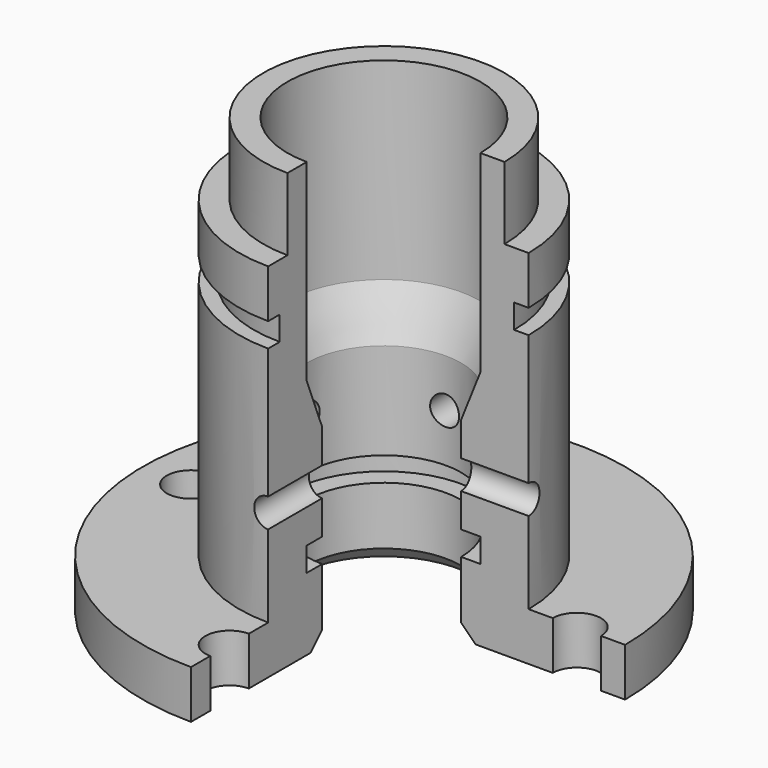
from build123d import *

# Parameters (mm, degrees)
SKETCH011_W        = 75.951607
SKETCH011_H        = 66.059464
PAD004_DEPTH       = 100
SKETCH010_W        = 3
SKETCH010_H        = 5
SKETCH007_R        = 3
PAD003_DEPTH       = 35
SKETCH006_R        = 3
PAD002_DEPTH       = 35
SKETCH005_W        = 4
SKETCH005_H        = 5
SKETCH_R           = 50
PAD_DEPTH          = 10
SKETCH001_R        = 30
PAD001_DEPTH       = 80
SKETCH002_R        = 5
POCKET_DEPTH       = 345.262092
POLARPATTERN_COUNT = 4
SKETCH003_R        = 16
POCKET001_DEPTH    = 90.001
SKETCH009_R        = 30
SKETCH009_R_2      = 25
POCKET002_DEPTH    = 15


with BuildPart() as pad004:
    # Sketch011 → Pad004 (new body)
    with BuildSketch(Plane.XY):
        with Locations((37.975803, -33.029732)):
            Rectangle(SKETCH011_W, SKETCH011_H)
    extrude(amount=PAD004_DEPTH)


with BuildPart() as revolution003:
    # Sketch010 → Revolution003 (revolve)
    with BuildSketch(Plane.XZ):
        with Locations((28.5, 62.5)):
            Rectangle(SKETCH010_W, SKETCH010_H)
    revolve(axis=Axis((0, 0, 0), (0, 0, 1)))


with BuildPart() as revolution002:
    # Sketch008 → Revolution002 (revolve)
    with BuildSketch(Plane.XZ):
        Polygon((0, 100.7905), (0, 40), (16, 40), (20, 50), (20, 100.7905), align=None)
    revolve(axis=Axis((0, 0, 0), (0, 0, 1)))


with BuildPart() as pad003:
    # Sketch007 → Pad003 (new body, symmetric)
    with BuildSketch(Plane.YZ):
        with Locations((0, 30)):
            Circle(SKETCH007_R)
    extrude(amount=PAD003_DEPTH, both=True)


with BuildPart() as fusion:
    # Sketch006 → Pad002 (new body, symmetric)
    with BuildSketch(Plane.XZ):
        with Locations((0, 30)):
            Circle(SKETCH006_R)
    extrude(amount=PAD002_DEPTH, both=True)

    # Fusion: union Pad003
    add(pad003.part)


with BuildPart() as revolution001:
    # Sketch005 → Revolution001 (revolve)
    with BuildSketch(Plane.XZ):
        with Locations((18, 17.5)):
            Rectangle(SKETCH005_W, SKETCH005_H)
    revolve(axis=Axis((0, 0, 0), (0, 0, 1)))


with BuildPart() as revolution:
    # Sketch004 → Revolution (revolve)
    with BuildSketch(Plane.XZ):
        Polygon((16, 3), (16, 0), (19, 0), align=None)
    revolve(axis=Axis((0, 0, 0), (0, 0, 1)))


with BuildPart() as cut005:
    # Sketch → Pad (new body)
    with BuildSketch(Plane.XY):
        Circle(SKETCH_R)
    extrude(amount=PAD_DEPTH)

    # Sketch001 → Pad001 (new body)
    with BuildSketch(Plane.XY.offset(10)):
        Circle(SKETCH001_R)
    extrude(amount=PAD001_DEPTH)

    # Sketch002 → Pocket (cut, through all)
    with BuildSketch(Plane.XY.offset(10)):
        with Locations((-40, 0)):
            Circle(SKETCH002_R)
    pocket = extrude(amount=-POCKET_DEPTH, mode=Mode.SUBTRACT)

    # PolarPattern: Pocket ×4 about axis
    polarpattern_axis = Axis((0, 0, 10), (0, 0, 1))
    for i in range(1, POLARPATTERN_COUNT):
        add(pocket.rotate(polarpattern_axis, i * 360 / POLARPATTERN_COUNT), mode=Mode.SUBTRACT)

    # Sketch003 → Pocket001 (cut, through all)
    with BuildSketch(Plane.XY.offset(90)):
        Circle(SKETCH003_R)
    extrude(amount=-POCKET001_DEPTH, mode=Mode.SUBTRACT)

    # Cut: cut Revolution
    add(revolution.part, mode=Mode.SUBTRACT)

    # Cut001: cut Revolution001
    add(revolution001.part, mode=Mode.SUBTRACT)

    # Cut002: cut Fusion
    add(fusion.part, mode=Mode.SUBTRACT)

    # Cut003: cut Revolution002
    add(revolution002.part, mode=Mode.SUBTRACT)

    # Sketch009 → Pocket002 (cut)
    with BuildSketch(Plane.XY.offset(90)):
        Circle(SKETCH009_R)
        Circle(SKETCH009_R_2, mode=Mode.SUBTRACT)
    extrude(amount=-POCKET002_DEPTH, mode=Mode.SUBTRACT)

    # Cut004: cut Revolution003
    add(revolution003.part, mode=Mode.SUBTRACT)

    # Cut005: cut Pad004
    add(pad004.part, mode=Mode.SUBTRACT)


solid = cut005.part
